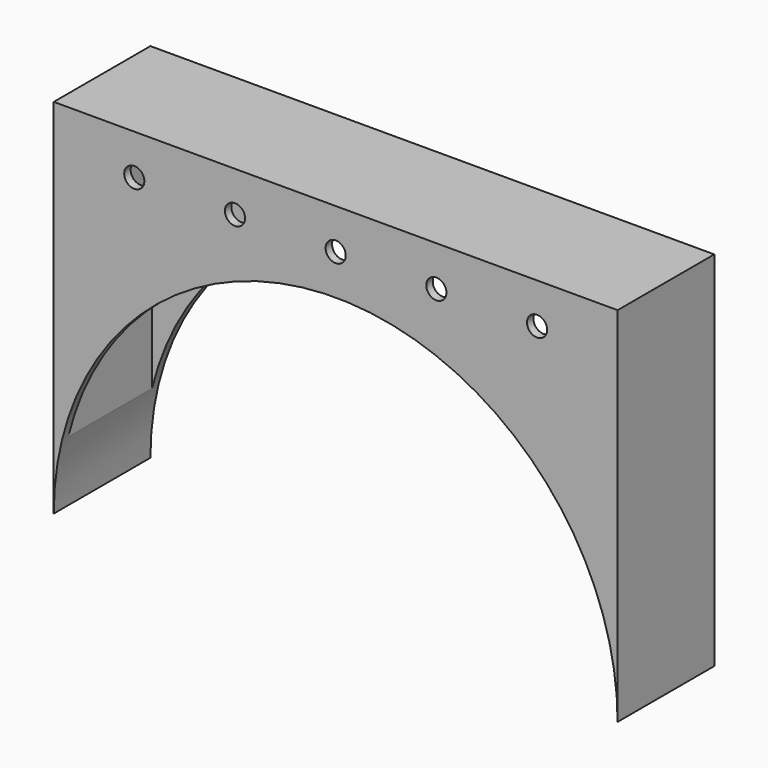
from build123d import *

# Parameters (mm, degrees)
F0_R     = 2.5
F1_DEPTH = 30
F2_T     = -2
F3_DEPTH = 5


with BuildPart() as f1:
    # F0 (on Front) → F1 (new body)
    with BuildSketch(Plane.XZ):
        with BuildLine():
            ThreePointArc((-70, 0), (0, 70), (70, 0))
            Line((70, 0), (70, 90))
            Line((70, 90), (-70, 90))
            Line((-70, 90), (-70, 0.4057721722))
            Line((-70, 0.4057721722), (-70, 0))
        make_face()
        with Locations((-50, 80)):
            Circle(F0_R, mode=Mode.SUBTRACT)
        with Locations((-25, 80)):
            Circle(F0_R, mode=Mode.SUBTRACT)
        with Locations((0, 80)):
            Circle(F0_R, mode=Mode.SUBTRACT)
        with Locations((25, 80)):
            Circle(F0_R, mode=Mode.SUBTRACT)
        with Locations((50, 80)):
            Circle(F0_R, mode=Mode.SUBTRACT)
        with Locations((50, 80)):
            Circle(F0_R)
        with Locations((25, 80)):
            Circle(F0_R)
        with Locations((0, 80)):
            Circle(F0_R)
        with Locations((-25, 80)):
            Circle(F0_R)
        with Locations((-50, 80)):
            Circle(F0_R)
    extrude(amount=-F1_DEPTH)

    # F2
    f2_openings = [f1.faces().sort_by_distance(p)[0] for p in [
        (0, 15, 70),
    ]]
    offset(amount=F2_T, openings=f2_openings, kind=Kind.INTERSECTION)

    # F0 (on Front) → F3 (cut)
    with BuildSketch(Plane.XZ):
        with Locations((50, 80)):
            Circle(F0_R)
        with Locations((25, 80)):
            Circle(F0_R)
        with Locations((0, 80)):
            Circle(F0_R)
        with Locations((-25, 80)):
            Circle(F0_R)
        with Locations((-50, 80)):
            Circle(F0_R)
    extrude(amount=-F3_DEPTH, mode=Mode.SUBTRACT)


solid = f1.part
